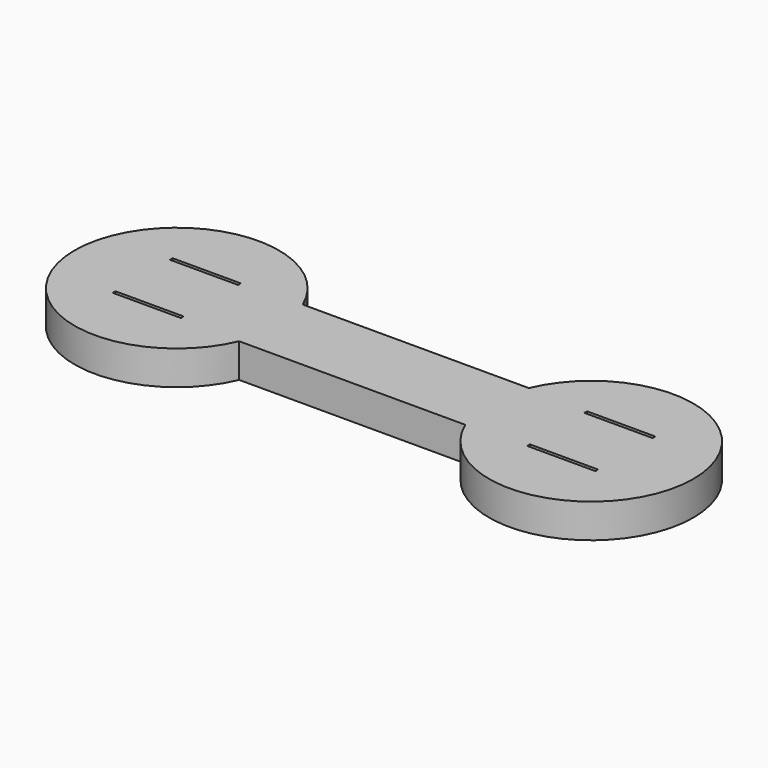
from build123d import *

# Parameters (mm, degrees)
F0_W     = 6
F0_H     = 0.3
F1_DEPTH = 3


with BuildPart() as f1:
    # F0 (on Top) → F1 (new body)
    with BuildSketch(Plane.XY):
        with BuildLine():
            Line((28.210546, 3.5), (8.291562, 3.5))
            ThreePointArc((8.291562, 3.5), (-9, 0), (8.291562, -3.5))
            Line((8.291562, -3.5), (28.210546, -3.5))
            ThreePointArc((28.210546, -3.5), (45.502108, 0), (28.210546, 3.5))
        make_face()
        with Locations((0, -3.15)):
            Rectangle(F0_W, F0_H, mode=Mode.SUBTRACT)
        with Locations((36.502108, -3.15)):
            Rectangle(F0_W, F0_H, mode=Mode.SUBTRACT)
        with Locations((0, 3.15)):
            Rectangle(F0_W, F0_H, mode=Mode.SUBTRACT)
        with Locations((36.502108, 3.15)):
            Rectangle(F0_W, F0_H, mode=Mode.SUBTRACT)
    extrude(amount=F1_DEPTH)


solid = f1.part
